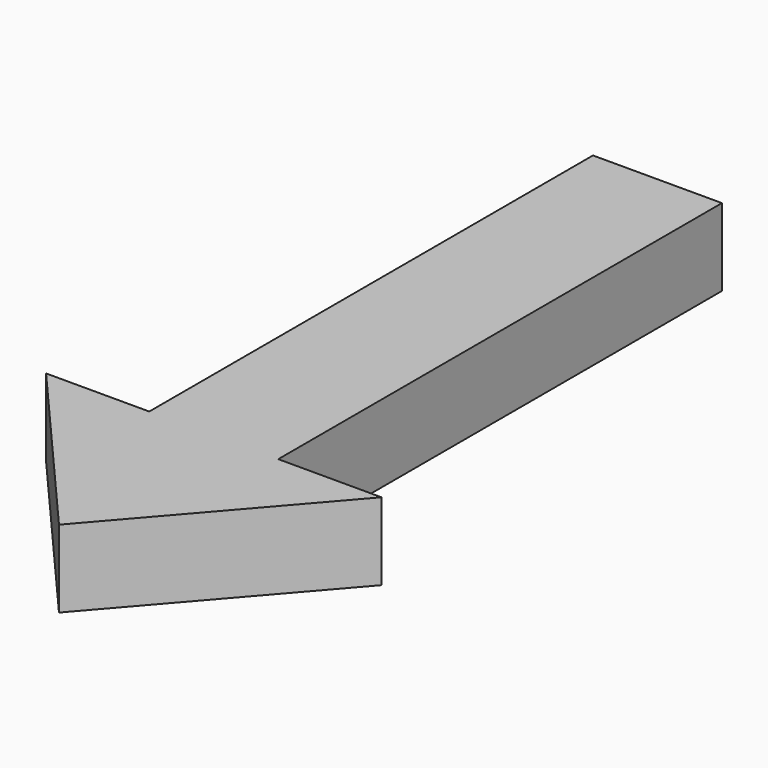
from build123d import *

# Parameters (mm, degrees)
F0_W     = 12.7
F0_H     = 7.62
F1_DEPTH = 63.5
F4_DEPTH = 7.62


with BuildPart() as f1:
    # F0 (on Front) → F1 (new body)
    with BuildSketch(Plane.XZ):
        with Locations((6.35, -3.81)):
            Rectangle(F0_W, F0_H)
    extrude(amount=F1_DEPTH)

    # F3 (on face) → F4 (join)
    with BuildSketch(Plane.XY):
        Polygon((22.86, -54.61), (-10.16, -54.61), (6.35, -73.66), align=None)
    extrude(amount=-F4_DEPTH)


solid = f1.part
